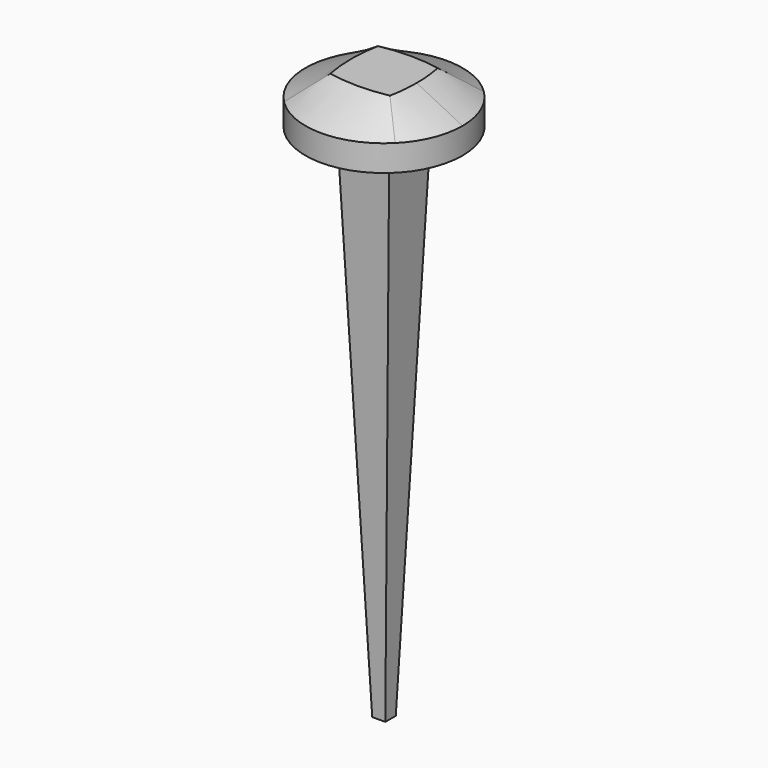
from build123d import *

# Parameters (mm, degrees)
F0_R      = 4.7625
F2_R      = 4.7625
F5_FACE_R = 4.7625
F4_W      = 3.175
F4_H      = 3.175
F9_W      = 3.175
F9_H      = 3.175
F8_W      = 0.79375
F8_H      = 0.79375
F11_R     = 2.6419390303
F12_DEPTH = 0.1984375


with BuildPart() as f5:
    # F0 (on Top) → F5 section 0
    with BuildSketch(Plane.XY):
        Circle(F0_R)
    # F2 (on offset) → F5 section 1
    with BuildSketch(Plane.XY.offset(1.5875)):
        Circle(F2_R)
    loft()

    # F5_face (on face) → F6 section 0
    with BuildSketch(Plane.XY.offset(1.5875)):
        Circle(F5_FACE_R)
    # F4 (on offset) → F6 section 1
    with BuildSketch(Plane.XY.offset(3.175)):
        Rectangle(F4_W, F4_H)
    loft()

    # F9 (on face) → F10 section 0
    with BuildSketch(Plane(origin=(0, 0, 0), x_dir=(1, 0, 0), z_dir=(0, 0, -1))):
        Rectangle(F9_W, F9_H)
    # F8 (on offset) → F10 section 1
    with BuildSketch(Plane.XY.offset(-31.496)):
        Rectangle(F8_W, F8_H)
    loft()

    # F11 (on offset) → F12 (cut)
    with BuildSketch(Plane.XY.offset(3.175)):
        Circle(F11_R)
    extrude(amount=-F12_DEPTH, mode=Mode.SUBTRACT)


solid = f5.part
